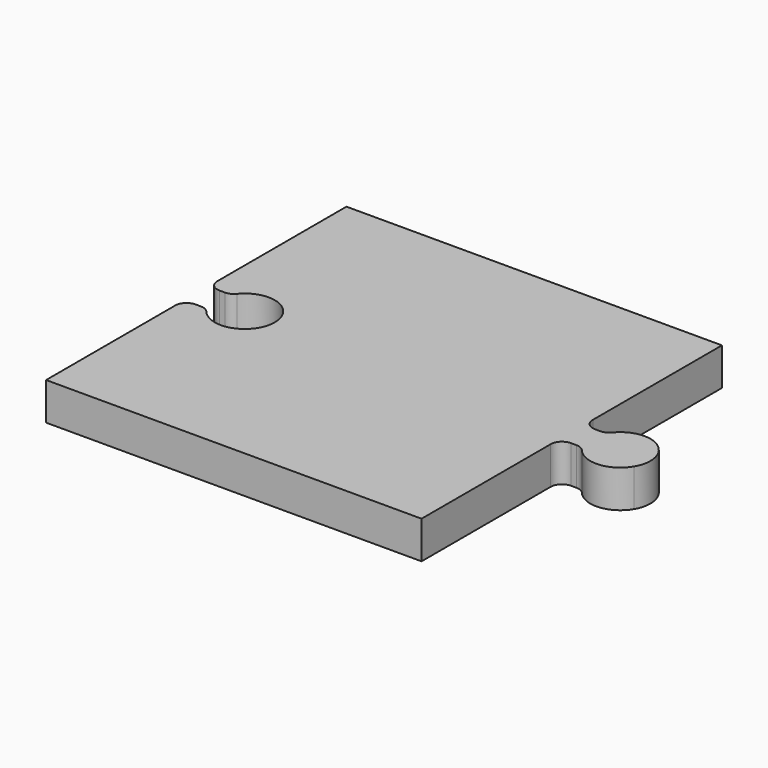
from build123d import *

# Parameters (mm, degrees)
F1_DEPTH = 5


with BuildPart() as f1:
    # F0 (on Top) → F1 (new body)
    with BuildSketch(Plane.XY):
        with BuildLine():
            Line((23.528581, 23.329832), (-26.471419, 23.329832))
            Line((-26.471419, 23.329832), (-26.471419, 1.829832))
            ThreePointArc((-26.471419, 1.829832), (-26.032079, 0.769172), (-24.971419, 0.329832))
            Line((-24.971419, 0.329832), (-24.25406, 0.329832))
            ThreePointArc((-24.25406, 0.329832), (-23.614457, 0.473031), (-23.096976, 0.875286))
            ThreePointArc((-23.096976, 0.875286), (-16.011419, -1.670168), (-23.096976, -4.215623))
            ThreePointArc((-23.096976, -4.215623), (-23.614457, -3.813367), (-24.25406, -3.670168))
            Line((-24.25406, -3.670168), (-24.971419, -3.670168))
            ThreePointArc((-24.971419, -3.670168), (-26.032079, -4.109508), (-26.471419, -5.170168))
            Line((-26.471419, -5.170168), (-26.471419, -26.670168))
            Line((-26.471419, -26.670168), (23.528581, -26.670168))
            Line((23.528581, -26.670168), (23.528581, -5.170168))
            ThreePointArc((23.528581, -5.170168), (23.967921, -4.109508), (25.028581, -3.670168))
            Line((25.028581, -3.670168), (25.76043, -3.670168))
            ThreePointArc((25.76043, -3.670168), (26.39723, -3.812049), (26.913562, -4.210853))
            ThreePointArc((26.913562, -4.210853), (30.318704, -5.639032), (33.442526, -3.670168))
            ThreePointArc((33.442526, -3.670168), (33.98853, -1.672874), (33.462722, 0.329832))
            ThreePointArc((33.462722, 0.329832), (30.322397, 2.333369), (26.892574, 0.880056))
            ThreePointArc((26.892574, 0.880056), (26.373965, 0.47435), (25.731572, 0.329832))
            Line((25.731572, 0.329832), (25.028581, 0.329832))
            ThreePointArc((25.028581, 0.329832), (23.967921, 0.769172), (23.528581, 1.829832))
            Line((23.528581, 1.829832), (23.528581, 23.329832))
        make_face()
    extrude(amount=F1_DEPTH)


solid = f1.part
